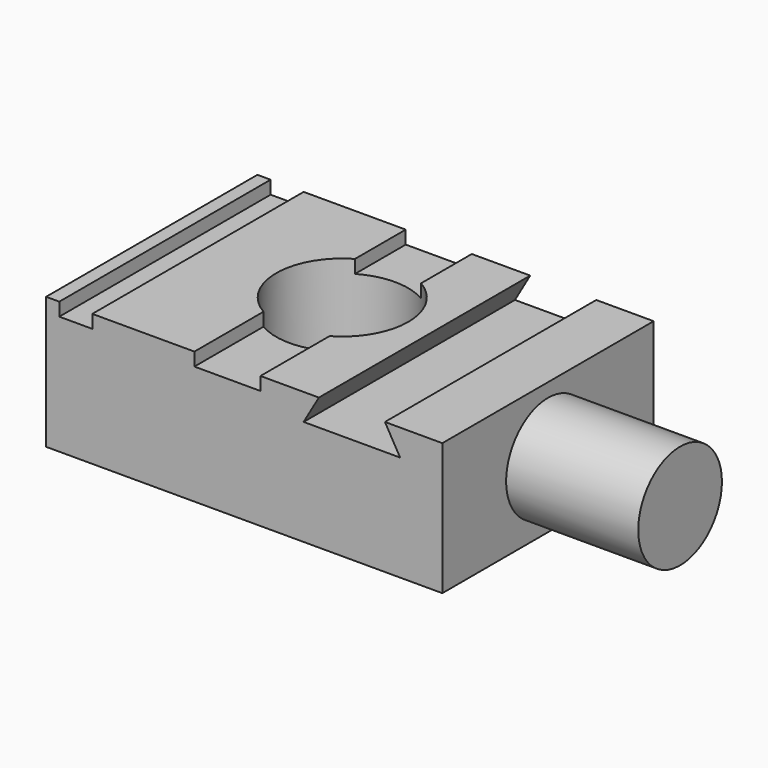
from build123d import *

# Parameters (mm, degrees)
F0_W     = 76.2
F0_H     = 50.8
F0_R     = 12.7
F1_DEPTH = 25.4
F2_W     = 6.35
F2_H     = 50.8
F3_DEPTH = 2.54
F5_R     = 10.0587183536
F6_DEPTH = 25.4
F7_DEPTH = 12.446
F8_DEPTH = 70.358


with BuildPart() as f1:
    # F0 (on Top) → F1 (new body)
    with BuildSketch(Plane.XY):
        with Locations((3.2262094319, -2.200336157)):
            Rectangle(F0_W, F0_H)
        Circle(F0_R, mode=Mode.SUBTRACT)
    extrude(amount=F1_DEPTH)

    # F2 (on face) → F3 (cut)
    with BuildSketch(Plane.XY.offset(25.4)):
        with Locations((-29.1587905681, -2.200336157)):
            Rectangle(F2_W, F2_H)
        with BuildLine():
            Line((-6.35, -10.9985226281), (-6.35, -27.600336157))
            Line((-6.35, -27.600336157), (6.35, -27.600336157))
            Line((6.35, -27.600336157), (6.35, -10.9985226281))
            ThreePointArc((6.35, -10.9985226281), (0, -12.7), (-6.35, -10.9985226281))
        make_face()
        with BuildLine():
            Line((6.35, 23.199663843), (-6.35, 23.199663843))
            Line((-6.35, 23.199663843), (-6.35, 10.9985226281))
            ThreePointArc((-6.35, 10.9985226281), (0, 12.7), (6.35, 10.9985226281))
            Line((6.35, 10.9985226281), (6.35, 23.199663843))
        make_face()
    extrude(amount=-F3_DEPTH, mode=Mode.SUBTRACT)

    # F5 (on face) → F6 (join)
    with BuildSketch(Plane.YZ.offset(41.3262094319)):
        with Locations((-2.200336157, 12.7)):
            Circle(F5_R)
    extrude(amount=F6_DEPTH)

    # F5 (on face) → F7 (join)
    with BuildSketch(Plane.YZ.offset(41.3262094319)):
        with Locations((-2.200336157, 12.7)):
            Circle(F5_R)
    extrude(amount=-F7_DEPTH)

    # F4 (on face) → F8 (cut)
    with BuildSketch(Plane.XZ.offset(27.600336157)):
        Polygon((30.2859525938, 25.4), (17.5859525938, 25.4), (14.6530132263, 20.32), (33.2188919613, 20.32), align=None)
    extrude(amount=-F8_DEPTH, mode=Mode.SUBTRACT)


solid = f1.part
